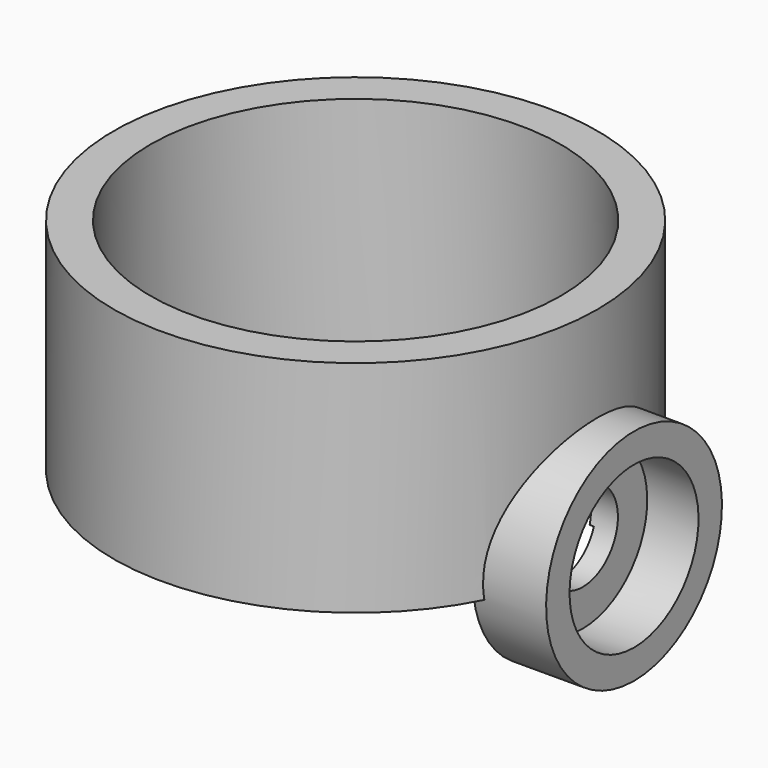
from build123d import *

# Parameters (mm, degrees)
CYLINDER115_R             = 6
CYLINDER115_DEPTH         = 38
CYLINDER114_R             = 11
CYLINDER114_DEPTH         = 7
FUSION033_PLACEMENT_ANGLE = 90
CYLINDER102_R             = 6
CYLINDER102_DEPTH         = 10
CYLINDER104_R             = 11
CYLINDER104_DEPTH         = 7
CYLINDER103_R             = 15
CYLINDER103_DEPTH         = 10
CUT114_PLACEMENT_ANGLE    = 90
CYLINDER112_R             = 28
CYLINDER112_DEPTH         = 30
CYLINDER113_R             = 33
CYLINDER113_DEPTH         = 30


with BuildPart() as center_cylinder043:
    # Cylinder115 → Cylinder115 (new body)
    with BuildSketch(Plane.XY.offset(-9)):
        Circle(CYLINDER115_R)
    extrude(amount=CYLINDER115_DEPTH)


with BuildPart() as fusion033:
    # Cylinder114 → Cylinder114 (new body)
    with BuildSketch(Plane.XY.offset(8)):
        Circle(CYLINDER114_R)
    extrude(amount=CYLINDER114_DEPTH)

    # Fusion033: union center-Cylinder043
    add(center_cylinder043.part)


with BuildPart() as fusion033_1:
    # Fusion033 placement: moved
    add(fusion033.part.rotate(Axis((0, 0, 0), (0, 1, 0)), FUSION033_PLACEMENT_ANGLE))


with BuildPart() as center_cylinder039:
    # Cylinder102 → Cylinder102 (new body)
    with BuildSketch(Plane.XY.offset(5)):
        Circle(CYLINDER102_R)
    extrude(amount=CYLINDER102_DEPTH)


with BuildPart() as center_cylinder041:
    # Cylinder104 → Cylinder104 (new body)
    with BuildSketch(Plane.XY.offset(8)):
        Circle(CYLINDER104_R)
    extrude(amount=CYLINDER104_DEPTH)


with BuildPart() as cut114:
    # Cylinder103 → Cylinder103 (new body)
    with BuildSketch(Plane.XY.offset(5)):
        Circle(CYLINDER103_R)
    extrude(amount=CYLINDER103_DEPTH)

    # Cut113: cut center-Cylinder041
    add(center_cylinder041.part, mode=Mode.SUBTRACT)

    # Cut114: cut center-Cylinder039
    add(center_cylinder039.part, mode=Mode.SUBTRACT)


with BuildPart() as cut114_1:
    # Cut114 placement: moved
    add(cut114.part.rotate(Axis((0, 0, 0), (0, 1, 0)), CUT114_PLACEMENT_ANGLE))


with BuildPart() as cylinder112:
    # Cylinder112 → Cylinder112 (new body)
    with BuildSketch(Plane(origin=(-23, 0, -2), x_dir=(1, 0, 0), z_dir=(0, 0, 1))):
        Circle(CYLINDER112_R)
    extrude(amount=CYLINDER112_DEPTH)


with BuildPart() as cut120:
    # Cylinder113 → Cylinder113 (new body)
    with BuildSketch(Plane(origin=(-23, 0, -2), x_dir=(1, 0, 0), z_dir=(0, 0, 1))):
        Circle(CYLINDER113_R)
    extrude(amount=CYLINDER113_DEPTH)

    # Cut119: cut Cylinder112
    add(cylinder112.part, mode=Mode.SUBTRACT)

    # Fusion034: union Cut114
    add(cut114_1.part)

    # Cut120: cut Fusion033
    add(fusion033_1.part, mode=Mode.SUBTRACT)


solid = cut120.part
